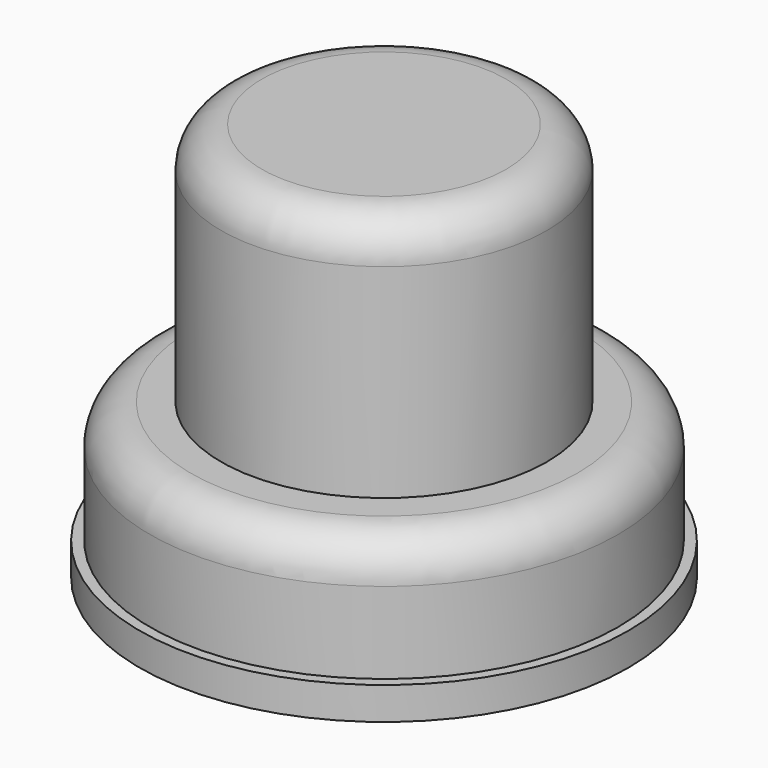
from build123d import *

# Parameters (mm, degrees)
F0_R     = 12
F1_DEPTH = 1.6
F2_R     = 11.5
F3_DEPTH = 6
F4_R     = 8
F5_DEPTH = 12
F6_R     = 2


with BuildPart() as f1:
    # F0 (on Top) → F1 (new body)
    with BuildSketch(Plane.XY):
        Circle(F0_R)
    extrude(amount=F1_DEPTH)

    # F2 (on face) → F3 (join)
    with BuildSketch(Plane.XY.offset(1.6)):
        Circle(F2_R)
    extrude(amount=F3_DEPTH)

    # F4 (on face) → F5 (join)
    with BuildSketch(Plane.XY.offset(7.6)):
        Circle(F4_R)
    extrude(amount=F5_DEPTH)

    # F6
    f6_edges = [f1.edges().sort_by_distance(p)[0] for p in [
        (-11.5, 0, 7.6),
        (-8, 0, 19.6),
    ]]
    fillet(f6_edges, radius=F6_R)


solid = f1.part
